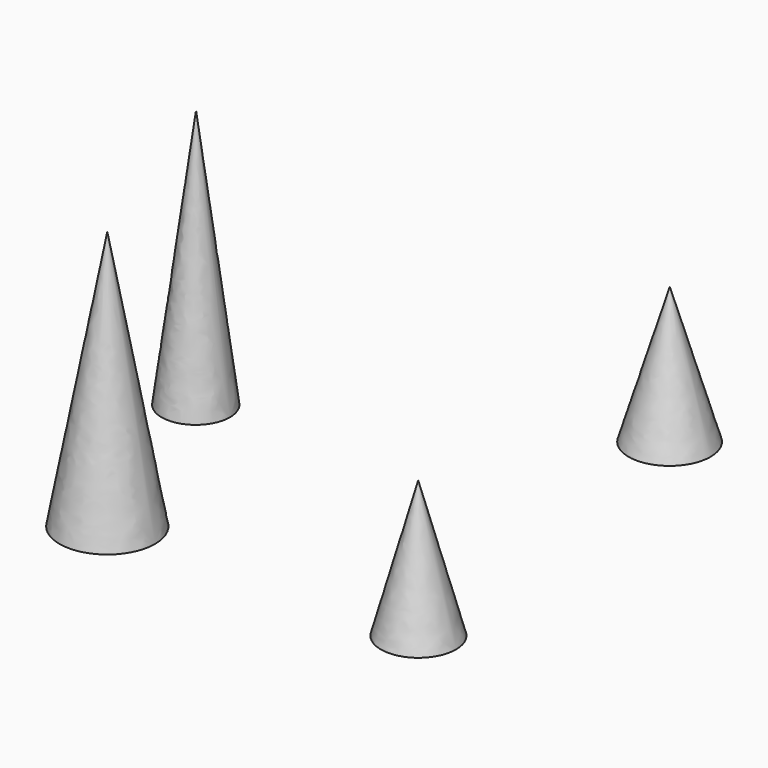
from build123d import *

# Parameters (mm, degrees)
F0_R   = 3.5
F0_R_2 = 2.5
F0_R_3 = 2.75
F0_R_4 = 3


with BuildPart() as f3:
    # F0 (on Top) → F3 section 0
    with BuildSketch(Plane.XY, mode=Mode.PRIVATE) as f3_s0:
        with Locations((-44.847909, 16.440384)):
            Circle(F0_R)
    loft([f3_s0.sketch, Vertex(-44.856876, 16.45538, 19)])


with BuildPart() as f4:
    # F0 (on Top) → F4 section 0
    with BuildSketch(Plane.XY, mode=Mode.PRIVATE) as f4_s0:
        with Locations((-50.307218, 31.366572)):
            Circle(F0_R_2)
    loft([f4_s0.sketch, Vertex(-50.29083, 31.372339, 19)])


with BuildPart() as f7:
    # F0 (on Top) → F7 section 0
    with BuildSketch(Plane.XY, mode=Mode.PRIVATE) as f7_s0:
        with Locations((-22.48705, 16.98673)):
            Circle(F0_R_3)
    loft([f7_s0.sketch, Vertex(-22.522904, 17.007282, 10)])


with BuildPart() as f8:
    # F0 (on Top) → F8 section 0
    with BuildSketch(Plane.XY, mode=Mode.PRIVATE) as f8_s0:
        with Locations((-26.276935, 44.719253)):
            Circle(F0_R_4)
    loft([f8_s0.sketch, Vertex(-26.267806, 44.727486, 10)])


solid = Compound([f3.part, f4.part, f7.part, f8.part])
